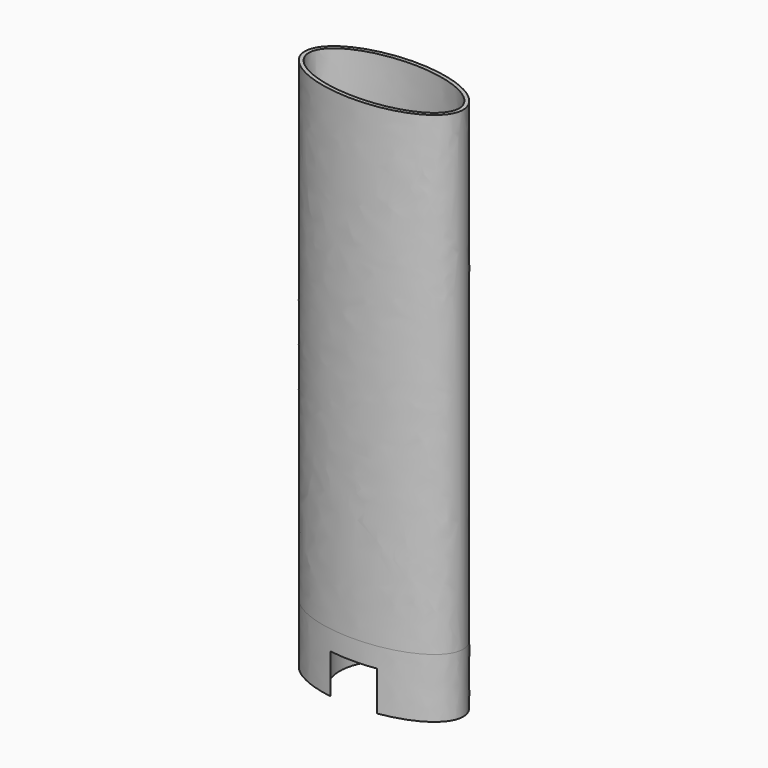
from build123d import *

# Parameters (mm, degrees)
F1_DEPTH = 19.05
F3_DEPTH = 12.7
F4_R     = 3.96875
F5_DEPTH = 6.35
F7_DEPTH = 152.4


with BuildPart() as f1:
    # F0 (on Top) → F1 (new body)
    with BuildSketch(Plane.XY):
        with BuildLine():
            add(Edge.make_bspline(
                [(25.4, 0), (25.4, 21.9970452561), (-12.7, 10.9985226281), (-50.8, 0), (-12.7, -10.9985226281), (25.4, -21.9970452561), (25.4, 0)],
                knots=[0, 0, 0, 2.0943951024, 2.0943951024, 4.1887902048, 4.1887902048, 6.2831853072, 6.2831853072, 6.2831853072], degree=2, weights=[1, 0.5, 1, 0.5, 1, 0.5, 1]))
        make_face()
    extrude(amount=F1_DEPTH)

    # F2 (on face) → F3 (cut)
    with BuildSketch(Plane(origin=(0, 0, 0), x_dir=(1, 0, 0), z_dir=(0, 0, -1))):
        with BuildLine():
            ThreePointArc((7.3965916475, -12.149592915), (12.4002277317, -6.9682514452), (14.224, 0))
            ThreePointArc((14.224, 0), (12.4002277317, 6.9682514452), (7.3965916475, 12.149592915))
            add(Edge.make_bspline(
                [(-7.3965916475, 12.149592915), (0, 13.2753419089), (7.3965916475, 12.149592915)],
                knots=[4.4486410477, 4.4486410477, 4.4486410477, 5.0282101794, 5.0282101794, 5.0282101794], degree=2, weights=[0.8913236368, 0.7872947298, 0.7598419267]))
            ThreePointArc((-7.3965916475, 12.149592915), (-14.224, 0), (-7.3965916475, -12.149592915))
            add(Edge.make_bspline(
                [(7.3965916475, -12.149592915), (0, -13.2753419089), (-7.3965916475, -12.149592915)],
                knots=[1.2549751277, 1.2549751277, 1.2549751277, 1.8345442595, 1.8345442595, 1.8345442595], degree=2, weights=[0.7598419267, 0.7872947298, 0.8913236368]))
        make_face()
    extrude(amount=-F3_DEPTH, mode=Mode.SUBTRACT)

    # F4 (on face) → F5 (cut)
    with BuildSketch(Plane.XY.offset(19.05)):
        Circle(F4_R)
    extrude(amount=-F5_DEPTH, mode=Mode.SUBTRACT)

    # F6 (on face) → F7 (join)
    with BuildSketch(Plane.XY.offset(19.05)):
        with BuildLine():
            add(Edge.make_bspline(
                [(25.4, 0), (25.4, 21.9970452561), (-12.7, 10.9985226281), (-50.8, 0), (-12.7, -10.9985226281), (25.4, -21.9970452561), (25.4, 0)],
                knots=[0, 0, 0, 2.0943951024, 2.0943951024, 4.1887902048, 4.1887902048, 6.2831853072, 6.2831853072, 6.2831853072], degree=2, weights=[1, 0.5, 1, 0.5, 1, 0.5, 1]))
        make_face()
        with BuildLine():
            add(Edge.make_bspline(
                [(24.13, 0), (24.13, 19.7973407305), (-12.065, 9.8986703653), (-48.26, 0), (-12.065, -9.8986703653), (24.13, -19.7973407305), (24.13, 0)],
                knots=[0, 0, 0, 2.0943951024, 2.0943951024, 4.1887902048, 4.1887902048, 6.2831853072, 6.2831853072, 6.2831853072], degree=2, weights=[1, 0.5, 1, 0.5, 1, 0.5, 1]))
        make_face(mode=Mode.SUBTRACT)
        with BuildLine():
            add(Edge.make_bspline(
                [(25.4, 0), (25.4, 21.9970452561), (-12.7, 10.9985226281), (-50.8, 0), (-12.7, -10.9985226281), (25.4, -21.9970452561), (25.4, 0)],
                knots=[0, 0, 0, 2.0943951024, 2.0943951024, 4.1887902048, 4.1887902048, 6.2831853072, 6.2831853072, 6.2831853072], degree=2, weights=[1, 0.5, 1, 0.5, 1, 0.5, 1]))
        make_face()
        with BuildLine():
            add(Edge.make_bspline(
                [(24.13, 0), (24.13, 19.7973407305), (-12.065, 9.8986703653), (-48.26, 0), (-12.065, -9.8986703653), (24.13, -19.7973407305), (24.13, 0)],
                knots=[0, 0, 0, 2.0943951024, 2.0943951024, 4.1887902048, 4.1887902048, 6.2831853072, 6.2831853072, 6.2831853072], degree=2, weights=[1, 0.5, 1, 0.5, 1, 0.5, 1]))
        make_face(mode=Mode.SUBTRACT)
    extrude(amount=F7_DEPTH)


solid = f1.part
